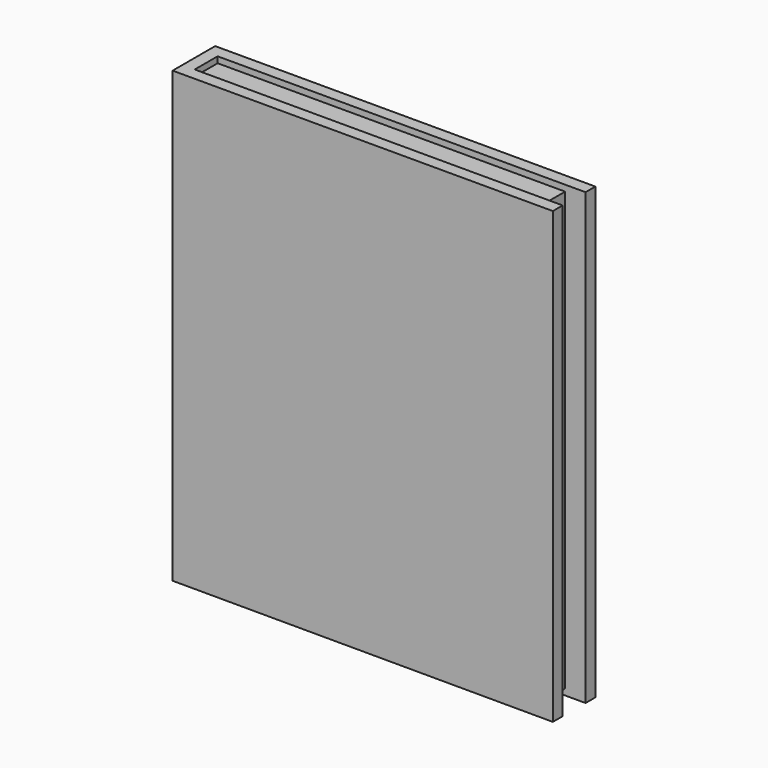
from build123d import *

# Parameters (mm, degrees)
F0_W     = 215.9
F0_H     = 271.78
F1_DEPTH = 17.78
F4_DEPTH = 7.62
F3_W     = 228.6
F3_H     = 279.4
F5_DEPTH = 7.62
F6_W     = 33.02
F6_H     = 279.043264
F7_DEPTH = 7.62


with BuildPart() as f1:
    # F0 (on Front) → F1 (new body)
    with BuildSketch(Plane.XZ):
        with Locations((27.200282, -20.502186)):
            Rectangle(F0_W, F0_H)
    extrude(amount=F1_DEPTH)

    # F2 (on face) → F4 (join)
    with BuildSketch(Plane.XZ.offset(17.78)):
        Polygon((147.850282, -160.202186), (147.850282, 119.197814), (-80.749718, 119.197814), (-80.749718, -159.84545), align=None)
    extrude(amount=F4_DEPTH)

    # F3 (on face) → F5 (join)
    with BuildSketch(Plane(origin=(0, 0, 0), x_dir=(-1, 0, 0), z_dir=(0, 1, 0))):
        with Locations((-33.550282, -20.502186)):
            Rectangle(F3_W, F3_H)
    extrude(amount=F5_DEPTH)

    # F6 (on face) → F7 (join)
    with BuildSketch(Plane(origin=(-80.749718, 0, 0), x_dir=(0, -1, 0), z_dir=(-1, 0, 0))):
        with Locations((8.89, -20.323818)):
            Rectangle(F6_W, F6_H)
    extrude(amount=F7_DEPTH)


solid = f1.part
